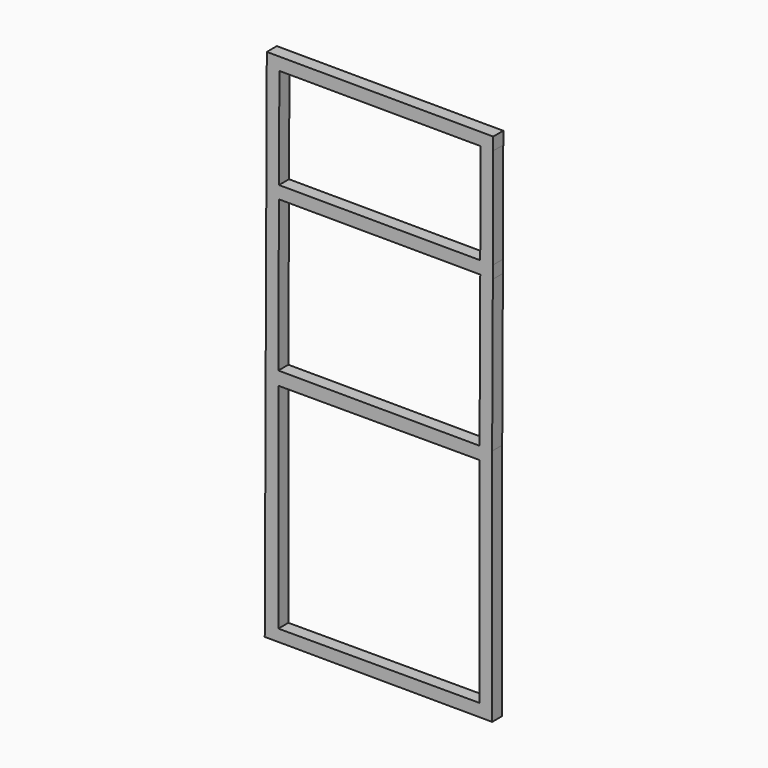
from build123d import *

# Parameters (mm, degrees)
F0_W     = 400
F0_H     = 425
F1_DEPTH = 12.5


with BuildPart() as f1:
    # F0 (on Front) → F1 (new body, symmetric)
    with BuildSketch(Plane.XZ):
        Polygon((254.732471, 173.139012), (255.529352, 373.374934), (255.529352, 398.374934), (-194.470648, 400.165605), (-198.54982, -624.826278), (253.435733, -626.625051), (253.435733, -152.557462), (254.81484, 148.36003), align=None)
        with Locations((28.444794, -389.025396)):
            Rectangle(F0_W, F0_H, mode=Mode.SUBTRACT)
        Polygon((228.440201, -151.525396), (-171.555206, -149.933887), (-170.361288, 150.067191), (229.815102, 148.474604), align=None, mode=Mode.SUBTRACT)
        Polygon((229.733608, 173.474604), (-170.266392, 175.066291), (-169.470449, 375.066489), (230.529551, 373.474604), align=None, mode=Mode.SUBTRACT)
    extrude(amount=F1_DEPTH, both=True)


solid = f1.part
